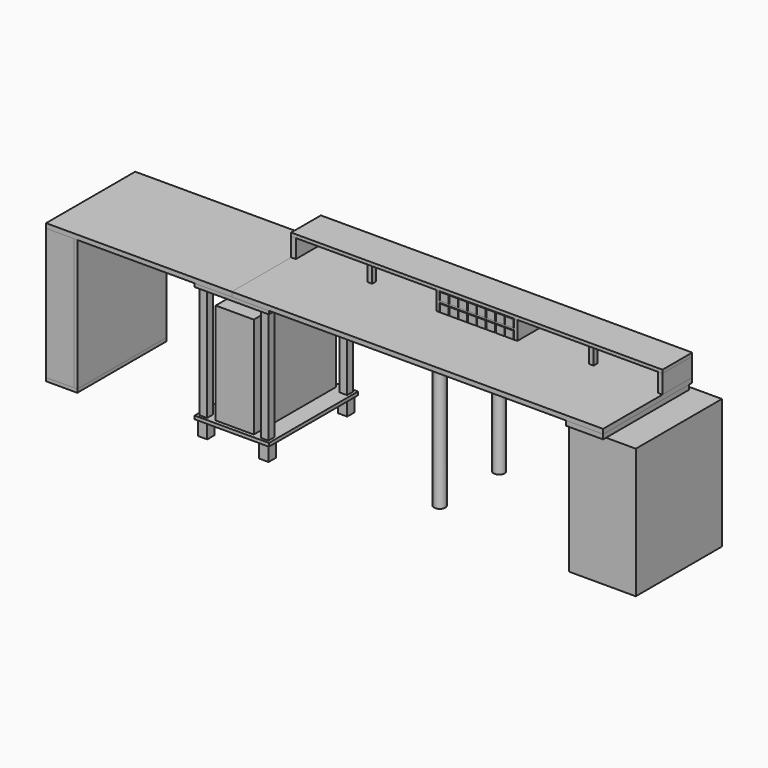
from build123d import *

# Parameters (mm, degrees)
BOX_W             = 2000
BOX_H             = 600
BOX_DEPTH         = 25
BOX001_W          = 2000
BOX001_H          = 200
BOX001_DEPTH      = 18
BOX002_W          = 205
BOX002_H          = 555
BOX002_DEPTH      = 545
BOX003_W          = 25
BOX003_H          = 25
BOX003_DEPTH      = 100
BOX004_W          = 25
BOX004_H          = 25
BOX004_DEPTH      = 100
BOX005_W          = 25
BOX005_H          = 25
BOX005_DEPTH      = 100
BOX006_W          = 25
BOX006_H          = 25
BOX006_DEPTH      = 100
BOX007_W          = 18
BOX007_H          = 200
BOX007_DEPTH      = 100
BOX008_W          = 18
BOX008_H          = 200
BOX008_DEPTH      = 100
BOX009_W          = 400
BOX009_H          = 200
BOX009_DEPTH      = 10
BOX010_W          = 46
BOX010_H          = 200
BOX010_DEPTH      = 42
BOX011_W          = 46
BOX011_H          = 200
BOX011_DEPTH      = 42
BOX012_W          = 46
BOX012_H          = 200
BOX012_DEPTH      = 42
BOX013_W          = 46
BOX013_H          = 200
BOX013_DEPTH      = 42
BOX014_W          = 46
BOX014_H          = 200
BOX014_DEPTH      = 42
BOX015_W          = 46
BOX015_H          = 200
BOX015_DEPTH      = 42
BOX016_W          = 46
BOX016_H          = 200
BOX016_DEPTH      = 42
BOX017_W          = 46
BOX017_H          = 200
BOX017_DEPTH      = 42
BOX018_W          = 46
BOX018_H          = 200
BOX018_DEPTH      = 42
BOX019_W          = 46
BOX019_H          = 200
BOX019_DEPTH      = 42
BOX020_W          = 46
BOX020_H          = 200
BOX020_DEPTH      = 42
BOX021_W          = 46
BOX021_H          = 200
BOX021_DEPTH      = 42
BOX022_W          = 46
BOX022_H          = 200
BOX022_DEPTH      = 42
BOX023_W          = 46
BOX023_H          = 200
BOX023_DEPTH      = 42
BOX024_W          = 46
BOX024_H          = 200
BOX024_DEPTH      = 42
BOX025_W          = 46
BOX025_H          = 200
BOX025_DEPTH      = 42
BOX026_W          = 25
BOX026_H          = 200
BOX026_DEPTH      = 100
BOX027_W          = 25
BOX027_H          = 200
BOX027_DEPTH      = 100
CYLINDER002_R     = 30
CYLINDER002_DEPTH = 710
CYLINDER003_R     = 30
CYLINDER003_DEPTH = 710
BOX030_W          = 100
BOX030_H          = 100
BOX030_DEPTH      = 15
BOX031_W          = 100
BOX031_H          = 100
BOX031_DEPTH      = 15
BOX034_W          = 1000
BOX034_H          = 600
BOX034_DEPTH      = 25
BOX035_W          = 18
BOX035_H          = 600
BOX035_DEPTH      = 707
BOX036_W          = 360
BOX036_H          = 580
BOX036_DEPTH      = 700
BOX037_W          = 200
BOX037_H          = 580
BOX037_DEPTH      = 25
BOX038_W          = 400
BOX038_H          = 600
BOX038_DEPTH      = 18
BOX039_W          = 400
BOX039_H          = 600
BOX039_DEPTH      = 18
BOX041_W          = 50
BOX041_H          = 50
BOX041_DEPTH      = 80
BOX042_W          = 50
BOX042_H          = 50
BOX042_DEPTH      = 80
BOX043_W          = 50
BOX043_H          = 50
BOX043_DEPTH      = 80
BOX044_W          = 50
BOX044_H          = 50
BOX044_DEPTH      = 80
BOX045_W          = 40
BOX045_H          = 40
BOX045_DEPTH      = 609
BOX046_W          = 40
BOX046_H          = 40
BOX046_DEPTH      = 609
BOX047_W          = 40
BOX047_H          = 40
BOX047_DEPTH      = 609
BOX048_W          = 40
BOX048_H          = 40
BOX048_DEPTH      = 609
BOX049_W          = 150
BOX049_H          = 18
BOX049_DEPTH      = 707
BOX050_W          = 150
BOX050_H          = 18
BOX050_DEPTH      = 707
BOX051_W          = 168
BOX051_H          = 600
BOX051_DEPTH      = 18


with BuildPart() as base:
    # Box → Box (new body)
    with BuildSketch(Plane.XY.offset(725)):
        with Locations((1000, 300)):
            Rectangle(BOX_W, BOX_H)
    extrude(amount=BOX_DEPTH)


with BuildPart() as obj1:
    # Box001 → Box001 (new body)
    with BuildSketch(Plane(origin=(0, 400, 850), x_dir=(1, 0, 0), z_dir=(0, 0, 1))):
        with Locations((1000, 100)):
            Rectangle(BOX001_W, BOX001_H)
    extrude(amount=BOX001_DEPTH)


with BuildPart() as obj2:
    # Box002 → Box002 (new body)
    with BuildSketch(Plane(origin=(-102.5, 20, 98), x_dir=(1, 0, 0), z_dir=(0, 0, 1))):
        with Locations((102.5, 277.5)):
            Rectangle(BOX002_W, BOX002_H)
    extrude(amount=BOX002_DEPTH)


with BuildPart() as box003:
    # Box003 → Box003 (new body)
    with BuildSketch(Plane(origin=(391, 550, 750), x_dir=(1, 0, 0), z_dir=(0, 0, 1))):
        with Locations((12.5, 12.5)):
            Rectangle(BOX003_W, BOX003_H)
    extrude(amount=BOX003_DEPTH)


with BuildPart() as box004:
    # Box004 → Box004 (new body)
    with BuildSketch(Plane(origin=(391, 425, 750), x_dir=(1, 0, 0), z_dir=(0, 0, 1))):
        with Locations((12.5, 12.5)):
            Rectangle(BOX004_W, BOX004_H)
    extrude(amount=BOX004_DEPTH)


with BuildPart() as box005:
    # Box005 → Box005 (new body)
    with BuildSketch(Plane(origin=(1584, 550, 750), x_dir=(1, 0, 0), z_dir=(0, 0, 1))):
        with Locations((12.5, 12.5)):
            Rectangle(BOX005_W, BOX005_H)
    extrude(amount=BOX005_DEPTH)


with BuildPart() as box006:
    # Box006 → Box006 (new body)
    with BuildSketch(Plane(origin=(1584, 425, 750), x_dir=(1, 0, 0), z_dir=(0, 0, 1))):
        with Locations((12.5, 12.5)):
            Rectangle(BOX006_W, BOX006_H)
    extrude(amount=BOX006_DEPTH)


with BuildPart() as obj3:
    # Box007 → Box007 (new body)
    with BuildSketch(Plane(origin=(782, 400, 750), x_dir=(1, 0, 0), z_dir=(0, 0, 1))):
        with Locations((9, 100)):
            Rectangle(BOX007_W, BOX007_H)
    extrude(amount=BOX007_DEPTH)


with BuildPart() as obj4:
    # Box008 → Box008 (new body)
    with BuildSketch(Plane(origin=(1200, 400, 750), x_dir=(1, 0, 0), z_dir=(0, 0, 1))):
        with Locations((9, 100)):
            Rectangle(BOX008_W, BOX008_H)
    extrude(amount=BOX008_DEPTH)


with BuildPart() as obj5:
    # Box009 → Box009 (new body)
    with BuildSketch(Plane(origin=(800, 400, 795), x_dir=(1, 0, 0), z_dir=(0, 0, 1))):
        with Locations((200, 100)):
            Rectangle(BOX009_W, BOX009_H)
    extrude(amount=BOX009_DEPTH)


with BuildPart() as obj6:
    # Box010 → Box010 (new body)
    with BuildSketch(Plane(origin=(802, 400, 750), x_dir=(1, 0, 0), z_dir=(0, 0, 1))):
        with Locations((23, 100)):
            Rectangle(BOX010_W, BOX010_H)
    extrude(amount=BOX010_DEPTH)


with BuildPart() as obj7:
    # Box011 → Box011 (new body)
    with BuildSketch(Plane(origin=(852, 400, 750), x_dir=(1, 0, 0), z_dir=(0, 0, 1))):
        with Locations((23, 100)):
            Rectangle(BOX011_W, BOX011_H)
    extrude(amount=BOX011_DEPTH)


with BuildPart() as obj8:
    # Box012 → Box012 (new body)
    with BuildSketch(Plane(origin=(902, 400, 750), x_dir=(1, 0, 0), z_dir=(0, 0, 1))):
        with Locations((23, 100)):
            Rectangle(BOX012_W, BOX012_H)
    extrude(amount=BOX012_DEPTH)


with BuildPart() as obj9:
    # Box013 → Box013 (new body)
    with BuildSketch(Plane(origin=(952, 400, 750), x_dir=(1, 0, 0), z_dir=(0, 0, 1))):
        with Locations((23, 100)):
            Rectangle(BOX013_W, BOX013_H)
    extrude(amount=BOX013_DEPTH)


with BuildPart() as obj10:
    # Box014 → Box014 (new body)
    with BuildSketch(Plane(origin=(1002, 400, 750), x_dir=(1, 0, 0), z_dir=(0, 0, 1))):
        with Locations((23, 100)):
            Rectangle(BOX014_W, BOX014_H)
    extrude(amount=BOX014_DEPTH)


with BuildPart() as obj11:
    # Box015 → Box015 (new body)
    with BuildSketch(Plane(origin=(1052, 400, 750), x_dir=(1, 0, 0), z_dir=(0, 0, 1))):
        with Locations((23, 100)):
            Rectangle(BOX015_W, BOX015_H)
    extrude(amount=BOX015_DEPTH)


with BuildPart() as obj12:
    # Box016 → Box016 (new body)
    with BuildSketch(Plane(origin=(1102, 400, 750), x_dir=(1, 0, 0), z_dir=(0, 0, 1))):
        with Locations((23, 100)):
            Rectangle(BOX016_W, BOX016_H)
    extrude(amount=BOX016_DEPTH)


with BuildPart() as obj13:
    # Box017 → Box017 (new body)
    with BuildSketch(Plane(origin=(1152, 400, 750), x_dir=(1, 0, 0), z_dir=(0, 0, 1))):
        with Locations((23, 100)):
            Rectangle(BOX017_W, BOX017_H)
    extrude(amount=BOX017_DEPTH)


with BuildPart() as obj14:
    # Box018 → Box018 (new body)
    with BuildSketch(Plane(origin=(1052, 400, 805), x_dir=(1, 0, 0), z_dir=(0, 0, 1))):
        with Locations((23, 100)):
            Rectangle(BOX018_W, BOX018_H)
    extrude(amount=BOX018_DEPTH)


with BuildPart() as obj15:
    # Box019 → Box019 (new body)
    with BuildSketch(Plane(origin=(952, 400, 805), x_dir=(1, 0, 0), z_dir=(0, 0, 1))):
        with Locations((23, 100)):
            Rectangle(BOX019_W, BOX019_H)
    extrude(amount=BOX019_DEPTH)


with BuildPart() as obj16:
    # Box020 → Box020 (new body)
    with BuildSketch(Plane(origin=(1102, 400, 805), x_dir=(1, 0, 0), z_dir=(0, 0, 1))):
        with Locations((23, 100)):
            Rectangle(BOX020_W, BOX020_H)
    extrude(amount=BOX020_DEPTH)


with BuildPart() as obj17:
    # Box021 → Box021 (new body)
    with BuildSketch(Plane(origin=(1002, 400, 805), x_dir=(1, 0, 0), z_dir=(0, 0, 1))):
        with Locations((23, 100)):
            Rectangle(BOX021_W, BOX021_H)
    extrude(amount=BOX021_DEPTH)


with BuildPart() as obj18:
    # Box022 → Box022 (new body)
    with BuildSketch(Plane(origin=(1152, 400, 805), x_dir=(1, 0, 0), z_dir=(0, 0, 1))):
        with Locations((23, 100)):
            Rectangle(BOX022_W, BOX022_H)
    extrude(amount=BOX022_DEPTH)


with BuildPart() as obj19:
    # Box023 → Box023 (new body)
    with BuildSketch(Plane(origin=(852, 400, 805), x_dir=(1, 0, 0), z_dir=(0, 0, 1))):
        with Locations((23, 100)):
            Rectangle(BOX023_W, BOX023_H)
    extrude(amount=BOX023_DEPTH)


with BuildPart() as obj20:
    # Box024 → Box024 (new body)
    with BuildSketch(Plane(origin=(902, 400, 805), x_dir=(1, 0, 0), z_dir=(0, 0, 1))):
        with Locations((23, 100)):
            Rectangle(BOX024_W, BOX024_H)
    extrude(amount=BOX024_DEPTH)


with BuildPart() as obj21:
    # Box025 → Box025 (new body)
    with BuildSketch(Plane(origin=(802, 400, 805), x_dir=(1, 0, 0), z_dir=(0, 0, 1))):
        with Locations((23, 100)):
            Rectangle(BOX025_W, BOX025_H)
    extrude(amount=BOX025_DEPTH)


with BuildPart() as leg100r_l:
    # Box026 → Box026 (new body)
    with BuildSketch(Plane(origin=(0, 400, 750), x_dir=(1, 0, 0), z_dir=(0, 0, 1))):
        with Locations((12.5, 100)):
            Rectangle(BOX026_W, BOX026_H)
    extrude(amount=BOX026_DEPTH)


with BuildPart() as leg100r_r:
    # Box027 → Box027 (new body)
    with BuildSketch(Plane(origin=(1975, 400, 750), x_dir=(1, 0, 0), z_dir=(0, 0, 1))):
        with Locations((12.5, 100)):
            Rectangle(BOX027_W, BOX027_H)
    extrude(amount=BOX027_DEPTH)


with BuildPart() as cylinder002:
    # Cylinder002 → Cylinder002 (new body)
    with BuildSketch(Plane(origin=(1000, 550, 0), x_dir=(1, 0, 0), z_dir=(0, 0, 1))):
        Circle(CYLINDER002_R)
    extrude(amount=CYLINDER002_DEPTH)


with BuildPart() as cylinder003:
    # Cylinder003 → Cylinder003 (new body)
    with BuildSketch(Plane(origin=(1000, 150, 0), x_dir=(1, 0, 0), z_dir=(0, 0, 1))):
        Circle(CYLINDER003_R)
    extrude(amount=CYLINDER003_DEPTH)


with BuildPart() as box030:
    # Box030 → Box030 (new body)
    with BuildSketch(Plane(origin=(950, 500, 710), x_dir=(1, 0, 0), z_dir=(0, 0, 1))):
        with Locations((50, 50)):
            Rectangle(BOX030_W, BOX030_H)
    extrude(amount=BOX030_DEPTH)


with BuildPart() as box031:
    # Box031 → Box031 (new body)
    with BuildSketch(Plane(origin=(950, 100, 710), x_dir=(1, 0, 0), z_dir=(0, 0, 1))):
        with Locations((50, 50)):
            Rectangle(BOX031_W, BOX031_H)
    extrude(amount=BOX031_DEPTH)


with BuildPart() as obj22:
    # Box034 → Box034 (new body)
    with BuildSketch(Plane(origin=(-1000, 0, 725), x_dir=(1, 0, 0), z_dir=(0, 0, 1))):
        with Locations((500, 300)):
            Rectangle(BOX034_W, BOX034_H)
    extrude(amount=BOX034_DEPTH)


with BuildPart() as leg725r:
    # Box035 → Box035 (new body)
    with BuildSketch(Plane(origin=(-850, 0, 18), x_dir=(1, 0, 0), z_dir=(0, 0, 1))):
        with Locations((9, 300)):
            Rectangle(BOX035_W, BOX035_H)
    extrude(amount=BOX035_DEPTH)


with BuildPart() as obj23:
    # Box036 → Box036 (new body)
    with BuildSketch(Plane(origin=(1800, 20, 0), x_dir=(1, 0, 0), z_dir=(0, 0, 1))):
        with Locations((180, 290)):
            Rectangle(BOX036_W, BOX036_H)
    extrude(amount=BOX036_DEPTH)


with BuildPart() as obj24:
    # Box037 → Box037 (new body)
    with BuildSketch(Plane(origin=(1800, 0, 700), x_dir=(1, 0, 0), z_dir=(0, 0, 1))):
        with Locations((100, 290)):
            Rectangle(BOX037_W, BOX037_H)
    extrude(amount=BOX037_DEPTH)


with BuildPart() as obj25:
    # Box038 → Box038 (new body)
    with BuildSketch(Plane(origin=(-200, 0, 707), x_dir=(1, 0, 0), z_dir=(0, 0, 1))):
        with Locations((200, 300)):
            Rectangle(BOX038_W, BOX038_H)
    extrude(amount=BOX038_DEPTH)


with BuildPart() as obj26:
    # Box039 → Box039 (new body)
    with BuildSketch(Plane(origin=(-200, 0, 80), x_dir=(1, 0, 0), z_dir=(0, 0, 1))):
        with Locations((200, 300)):
            Rectangle(BOX039_W, BOX039_H)
    extrude(amount=BOX039_DEPTH)


with BuildPart() as box041:
    # Box041 → Box041 (new body)
    with BuildSketch(Plane(origin=(-190, 540, 0), x_dir=(1, 0, 0), z_dir=(0, 0, 1))):
        with Locations((25, 25)):
            Rectangle(BOX041_W, BOX041_H)
    extrude(amount=BOX041_DEPTH)


with BuildPart() as box042:
    # Box042 → Box042 (new body)
    with BuildSketch(Plane(origin=(-190, 10, 0), x_dir=(1, 0, 0), z_dir=(0, 0, 1))):
        with Locations((25, 25)):
            Rectangle(BOX042_W, BOX042_H)
    extrude(amount=BOX042_DEPTH)


with BuildPart() as box043:
    # Box043 → Box043 (new body)
    with BuildSketch(Plane(origin=(140, 540, 0), x_dir=(1, 0, 0), z_dir=(0, 0, 1))):
        with Locations((25, 25)):
            Rectangle(BOX043_W, BOX043_H)
    extrude(amount=BOX043_DEPTH)


with BuildPart() as box044:
    # Box044 → Box044 (new body)
    with BuildSketch(Plane(origin=(140, 10, 0), x_dir=(1, 0, 0), z_dir=(0, 0, 1))):
        with Locations((25, 25)):
            Rectangle(BOX044_W, BOX044_H)
    extrude(amount=BOX044_DEPTH)


with BuildPart() as box045:
    # Box045 → Box045 (new body)
    with BuildSketch(Plane(origin=(-185, 545, 98), x_dir=(1, 0, 0), z_dir=(0, 0, 1))):
        with Locations((20, 20)):
            Rectangle(BOX045_W, BOX045_H)
    extrude(amount=BOX045_DEPTH)


with BuildPart() as box046:
    # Box046 → Box046 (new body)
    with BuildSketch(Plane(origin=(-185, 15, 98), x_dir=(1, 0, 0), z_dir=(0, 0, 1))):
        with Locations((20, 20)):
            Rectangle(BOX046_W, BOX046_H)
    extrude(amount=BOX046_DEPTH)


with BuildPart() as box047:
    # Box047 → Box047 (new body)
    with BuildSketch(Plane(origin=(145, 545, 98), x_dir=(1, 0, 0), z_dir=(0, 0, 1))):
        with Locations((20, 20)):
            Rectangle(BOX047_W, BOX047_H)
    extrude(amount=BOX047_DEPTH)


with BuildPart() as box048:
    # Box048 → Box048 (new body)
    with BuildSketch(Plane(origin=(145, 15, 98), x_dir=(1, 0, 0), z_dir=(0, 0, 1))):
        with Locations((20, 20)):
            Rectangle(BOX048_W, BOX048_H)
    extrude(amount=BOX048_DEPTH)


with BuildPart() as leg725r_f:
    # Box049 → Box049 (new body)
    with BuildSketch(Plane(origin=(-1000, 0, 18), x_dir=(1, 0, 0), z_dir=(0, 0, 1))):
        with Locations((75, 9)):
            Rectangle(BOX049_W, BOX049_H)
    extrude(amount=BOX049_DEPTH)


with BuildPart() as leg725r_r:
    # Box050 → Box050 (new body)
    with BuildSketch(Plane(origin=(-1000, 582, 18), x_dir=(1, 0, 0), z_dir=(0, 0, 1))):
        with Locations((75, 9)):
            Rectangle(BOX050_W, BOX050_H)
    extrude(amount=BOX050_DEPTH)


with BuildPart() as cube:
    # Box051 → Box051 (new body)
    with BuildSketch(Plane(origin=(-1000, 0, 0), x_dir=(1, 0, 0), z_dir=(0, 0, 1))):
        with Locations((84, 300)):
            Rectangle(BOX051_W, BOX051_H)
    extrude(amount=BOX051_DEPTH)


solid = Compound([base.part, obj1.part, obj2.part, box003.part, box004.part, box005.part, box006.part, obj3.part, obj4.part, obj5.part, obj6.part, obj7.part, obj8.part, obj9.part, obj10.part, obj11.part, obj12.part, obj13.part, obj14.part, obj15.part, obj16.part, obj17.part, obj18.part, obj19.part, obj20.part, obj21.part, leg100r_l.part, leg100r_r.part, cylinder002.part, cylinder003.part, box030.part, box031.part, obj22.part, leg725r.part, obj23.part, obj24.part, obj25.part, obj26.part, box041.part, box042.part, box043.part, box044.part, box045.part, box046.part, box047.part, box048.part, leg725r_f.part, leg725r_r.part, cube.part])
